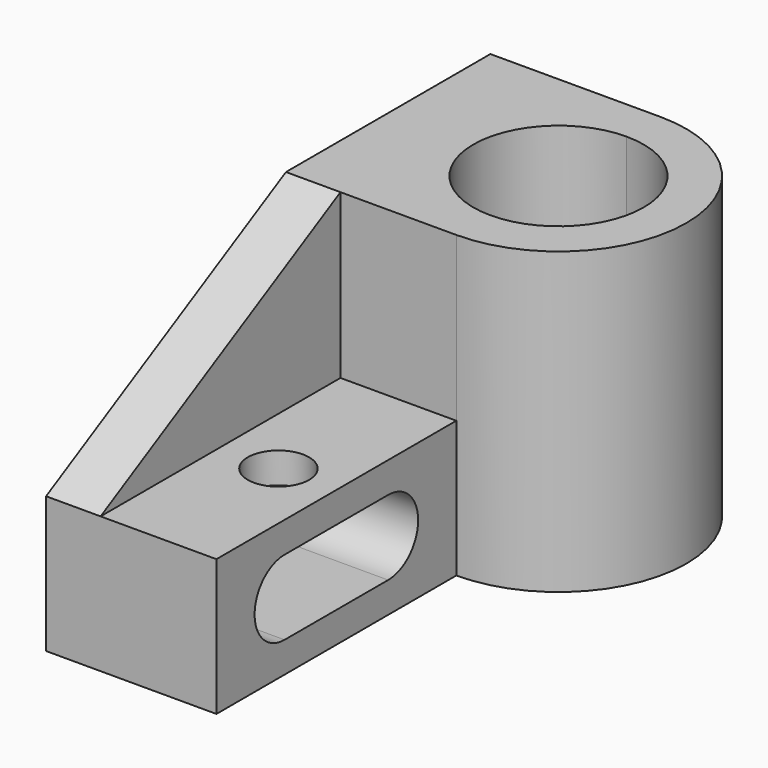
from build123d import *

# Parameters (mm, degrees)
F0_W      = 50
F0_H      = 88
F1_DEPTH  = 88
F2_W      = 50
F2_H      = 88
F3_DEPTH  = 48
F4_W      = 16
F4_H      = 88
F5_DEPTH  = 48
F7_DEPTH  = 25
F8_R      = 9
F9_DEPTH  = 31
F11_DEPTH = 34


with BuildPart() as f1:
    # F0 (on Top) → F1 (new body)
    with BuildSketch(Plane.XY):
        with Locations((-25, -60.6841130704)):
            Rectangle(F0_W, F0_H)
        with BuildLine():
            Line((0, 58.3158869296), (-50, 58.3158869296))
            Line((-50, 58.3158869296), (-50, -16.6841130704))
            Line((-50, -16.6841130704), (0, -16.6841130704))
            Line((0, -16.6841130704), (0, -4.1841130704))
            ThreePointArc((0, -4.1841130704), (-25, 20.8158869296), (0, 45.8158869296))
            Line((0, 45.8158869296), (0, 58.3158869296))
        make_face()
        with BuildLine():
            ThreePointArc((0, -16.6841130704), (37.5, 20.8158869296), (0, 58.3158869296))
            Line((0, 58.3158869296), (0, 45.8158869296))
            ThreePointArc((0, 45.8158869296), (17.6776695297, 38.4935564593), (25, 20.8158869296))
            ThreePointArc((25, 20.8158869296), (17.6776695297, 3.1382174), (0, -4.1841130704))
            Line((0, -4.1841130704), (0, -16.6841130704))
        make_face()
    extrude(amount=F1_DEPTH)

    # F2 (on face) → F3 (cut)
    with BuildSketch(Plane.XY.offset(88)):
        with Locations((-25, -60.6841130704)):
            Rectangle(F2_W, F2_H)
    extrude(amount=-F3_DEPTH, mode=Mode.SUBTRACT)

    # F4 (on face) → F5 (join)
    with BuildSketch(Plane.XY.offset(40)):
        with Locations((-42, -60.6841130704)):
            Rectangle(F4_W, F4_H)
    extrude(amount=F5_DEPTH)

    # F6 (on face) → F7 (cut)
    with BuildSketch(Plane.YZ.offset(-34)):
        Polygon((-104.6841130704, 88), (-104.6841130704, 40), (-16.6841130704, 88), align=None)
    extrude(amount=-F7_DEPTH, mode=Mode.SUBTRACT)

    # F8 (on face) → F9 (cut)
    with BuildSketch(Plane.XY.offset(40)):
        with Locations((-17, -60.6841130704)):
            Circle(F8_R)
    extrude(amount=-F9_DEPTH, mode=Mode.SUBTRACT)

    # F10 (on face) → F11 (cut)
    with BuildSketch(Plane.YZ):
        with BuildLine():
            Line((-41.6841130704, 31), (-79.6841130704, 31))
            ThreePointArc((-79.6841130704, 31), (-90.6841130704, 20), (-79.6841130704, 9))
            Line((-79.6841130704, 9), (-41.6841130704, 9))
            ThreePointArc((-41.6841130704, 9), (-30.6841130704, 20), (-41.6841130704, 31))
        make_face()
    extrude(amount=-F11_DEPTH, mode=Mode.SUBTRACT)


solid = f1.part
